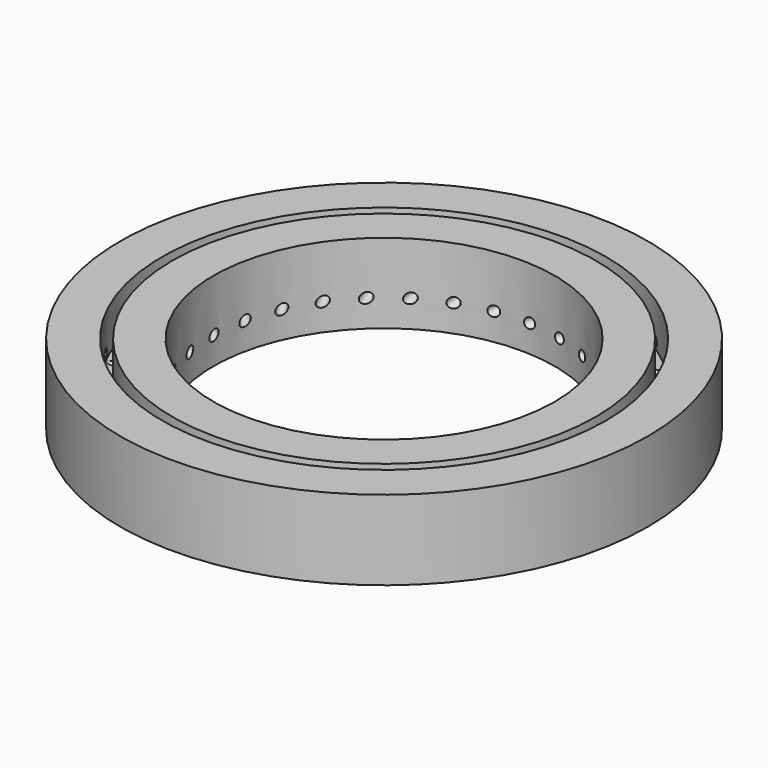
from build123d import *

# Parameters (mm, degrees)
F0_R      = 26.289
F1_DEPTH  = 7.9375
F2_R      = 17
F3_DEPTH  = 7.9385
F6_R      = 0.5
F7_DEPTH  = 28.067
F8_ANGLE  = 20
F10_ANGLE = 50
F11_ANGLE = 55
F12_COUNT = 31
F17_R     = 22.098
F17_R_2   = 21.082
F18_DEPTH = 4.2545


with BuildPart() as f1:
    # F0 (on Top) → F1 (new body)
    with BuildSketch(Plane.XY):
        Circle(F0_R)
    extrude(amount=F1_DEPTH)

    # F2 (on Top) → F3 (cut, through all)
    with BuildSketch(Plane.XY):
        Circle(F2_R)
    extrude(amount=F3_DEPTH, mode=Mode.SUBTRACT)


with BuildPart() as f7:
    # F6 (on Right) → F7 (new body)
    with BuildSketch(Plane.YZ):
        with Locations((0, 54.099839)):
            Circle(F6_R)
    extrude(amount=F7_DEPTH)


with BuildPart() as f7_1:
    # F8: moved
    add(f7.part.rotate(Axis((0, 0, 71.663387), (0, 0, 1)), F8_ANGLE))


with BuildPart() as f7_2:
    # F9: moved
    add(f7_1.part.moved(Location((0, 0, -58.42))))


with BuildPart() as f7_3:
    # F10: moved
    add(f7_2.part.rotate(Axis((14.928388, 0, 0), (1, 0, 0)), F10_ANGLE))


with BuildPart() as f7_4:
    # F11: moved
    add(f7_3.part.rotate(Axis((0, -8.906875, 35.487175), (0, 0, 1)), F11_ANGLE))


with BuildPart() as f12_1:
    # F12: instance of F7
    add(f7_4.part.rotate(Axis((0, 0, 71.663387), (0, 0, 1)), 1 * 360 / F12_COUNT))


with BuildPart() as f12_2:
    # F12: instance of F7
    add(f7_4.part.rotate(Axis((0, 0, 71.663387), (0, 0, 1)), 2 * 360 / F12_COUNT))


with BuildPart() as f12_3:
    # F12: instance of F7
    add(f7_4.part.rotate(Axis((0, 0, 71.663387), (0, 0, 1)), 3 * 360 / F12_COUNT))


with BuildPart() as f12_4:
    # F12: instance of F7
    add(f7_4.part.rotate(Axis((0, 0, 71.663387), (0, 0, 1)), 4 * 360 / F12_COUNT))


with BuildPart() as f12_5:
    # F12: instance of F7
    add(f7_4.part.rotate(Axis((0, 0, 71.663387), (0, 0, 1)), 5 * 360 / F12_COUNT))


with BuildPart() as f12_6:
    # F12: instance of F7
    add(f7_4.part.rotate(Axis((0, 0, 71.663387), (0, 0, 1)), 6 * 360 / F12_COUNT))


with BuildPart() as f12_7:
    # F12: instance of F7
    add(f7_4.part.rotate(Axis((0, 0, 71.663387), (0, 0, 1)), 7 * 360 / F12_COUNT))


with BuildPart() as f12_8:
    # F12: instance of F7
    add(f7_4.part.rotate(Axis((0, 0, 71.663387), (0, 0, 1)), 8 * 360 / F12_COUNT))


with BuildPart() as f12_9:
    # F12: instance of F7
    add(f7_4.part.rotate(Axis((0, 0, 71.663387), (0, 0, 1)), 9 * 360 / F12_COUNT))


with BuildPart() as f12_10:
    # F12: instance of F7
    add(f7_4.part.rotate(Axis((0, 0, 71.663387), (0, 0, 1)), 10 * 360 / F12_COUNT))


with BuildPart() as f12_11:
    # F12: instance of F7
    add(f7_4.part.rotate(Axis((0, 0, 71.663387), (0, 0, 1)), 11 * 360 / F12_COUNT))


with BuildPart() as f12_12:
    # F12: instance of F7
    add(f7_4.part.rotate(Axis((0, 0, 71.663387), (0, 0, 1)), 12 * 360 / F12_COUNT))


with BuildPart() as f12_13:
    # F12: instance of F7
    add(f7_4.part.rotate(Axis((0, 0, 71.663387), (0, 0, 1)), 13 * 360 / F12_COUNT))


with BuildPart() as f12_14:
    # F12: instance of F7
    add(f7_4.part.rotate(Axis((0, 0, 71.663387), (0, 0, 1)), 14 * 360 / F12_COUNT))


with BuildPart() as f12_15:
    # F12: instance of F7
    add(f7_4.part.rotate(Axis((0, 0, 71.663387), (0, 0, 1)), 15 * 360 / F12_COUNT))


with BuildPart() as f12_16:
    # F12: instance of F7
    add(f7_4.part.rotate(Axis((0, 0, 71.663387), (0, 0, 1)), 16 * 360 / F12_COUNT))


with BuildPart() as f12_17:
    # F12: instance of F7
    add(f7_4.part.rotate(Axis((0, 0, 71.663387), (0, 0, 1)), 17 * 360 / F12_COUNT))


with BuildPart() as f12_18:
    # F12: instance of F7
    add(f7_4.part.rotate(Axis((0, 0, 71.663387), (0, 0, 1)), 18 * 360 / F12_COUNT))


with BuildPart() as f12_19:
    # F12: instance of F7
    add(f7_4.part.rotate(Axis((0, 0, 71.663387), (0, 0, 1)), 19 * 360 / F12_COUNT))


with BuildPart() as f12_20:
    # F12: instance of F7
    add(f7_4.part.rotate(Axis((0, 0, 71.663387), (0, 0, 1)), 20 * 360 / F12_COUNT))


with BuildPart() as f12_21:
    # F12: instance of F7
    add(f7_4.part.rotate(Axis((0, 0, 71.663387), (0, 0, 1)), 21 * 360 / F12_COUNT))


with BuildPart() as f12_22:
    # F12: instance of F7
    add(f7_4.part.rotate(Axis((0, 0, 71.663387), (0, 0, 1)), 22 * 360 / F12_COUNT))


with BuildPart() as f12_23:
    # F12: instance of F7
    add(f7_4.part.rotate(Axis((0, 0, 71.663387), (0, 0, 1)), 23 * 360 / F12_COUNT))


with BuildPart() as f12_24:
    # F12: instance of F7
    add(f7_4.part.rotate(Axis((0, 0, 71.663387), (0, 0, 1)), 24 * 360 / F12_COUNT))


with BuildPart() as f12_25:
    # F12: instance of F7
    add(f7_4.part.rotate(Axis((0, 0, 71.663387), (0, 0, 1)), 25 * 360 / F12_COUNT))


with BuildPart() as f12_26:
    # F12: instance of F7
    add(f7_4.part.rotate(Axis((0, 0, 71.663387), (0, 0, 1)), 26 * 360 / F12_COUNT))


with BuildPart() as f12_27:
    # F12: instance of F7
    add(f7_4.part.rotate(Axis((0, 0, 71.663387), (0, 0, 1)), 27 * 360 / F12_COUNT))


with BuildPart() as f12_28:
    # F12: instance of F7
    add(f7_4.part.rotate(Axis((0, 0, 71.663387), (0, 0, 1)), 28 * 360 / F12_COUNT))


with BuildPart() as f12_29:
    # F12: instance of F7
    add(f7_4.part.rotate(Axis((0, 0, 71.663387), (0, 0, 1)), 29 * 360 / F12_COUNT))


with BuildPart() as f12_30:
    # F12: instance of F7
    add(f7_4.part.rotate(Axis((0, 0, 71.663387), (0, 0, 1)), 30 * 360 / F12_COUNT))


with BuildPart() as f1_1:
    add(f1.part)

    # F13: cut F7, F12_14
    add(f7_4.part, mode=Mode.SUBTRACT)
    add(f12_14.part, mode=Mode.SUBTRACT)

    # F14: cut F12_30, F12_28, F12_26, F12_24, F12_22
    add(f12_30.part, mode=Mode.SUBTRACT)
    add(f12_28.part, mode=Mode.SUBTRACT)
    add(f12_26.part, mode=Mode.SUBTRACT)
    add(f12_24.part, mode=Mode.SUBTRACT)
    add(f12_22.part, mode=Mode.SUBTRACT)

    # F15: cut F12_20, F12_18, F12_16, F12_13, F12_11, F12_9, F12_7, F12_5, F12_3, F12_1
    add(f12_20.part, mode=Mode.SUBTRACT)
    add(f12_18.part, mode=Mode.SUBTRACT)
    add(f12_16.part, mode=Mode.SUBTRACT)
    add(f12_13.part, mode=Mode.SUBTRACT)
    add(f12_11.part, mode=Mode.SUBTRACT)
    add(f12_9.part, mode=Mode.SUBTRACT)
    add(f12_7.part, mode=Mode.SUBTRACT)
    add(f12_5.part, mode=Mode.SUBTRACT)
    add(f12_3.part, mode=Mode.SUBTRACT)
    add(f12_1.part, mode=Mode.SUBTRACT)

    # F16: cut F12_29, F12_27, F12_25, F12_23, F12_21, F12_19, F12_17, F12_15, F12_12, F12_10, F12_8, F12_6, F12_4, F12_2
    add(f12_29.part, mode=Mode.SUBTRACT)
    add(f12_27.part, mode=Mode.SUBTRACT)
    add(f12_25.part, mode=Mode.SUBTRACT)
    add(f12_23.part, mode=Mode.SUBTRACT)
    add(f12_21.part, mode=Mode.SUBTRACT)
    add(f12_19.part, mode=Mode.SUBTRACT)
    add(f12_17.part, mode=Mode.SUBTRACT)
    add(f12_15.part, mode=Mode.SUBTRACT)
    add(f12_12.part, mode=Mode.SUBTRACT)
    add(f12_10.part, mode=Mode.SUBTRACT)
    add(f12_8.part, mode=Mode.SUBTRACT)
    add(f12_6.part, mode=Mode.SUBTRACT)
    add(f12_4.part, mode=Mode.SUBTRACT)
    add(f12_2.part, mode=Mode.SUBTRACT)

    # F17 (on face) → F18 (cut)
    with BuildSketch(Plane.XY.offset(7.9375)):
        Circle(F17_R)
        Circle(F17_R_2, mode=Mode.SUBTRACT)
    extrude(amount=-F18_DEPTH, mode=Mode.SUBTRACT)


solid = f1_1.part
